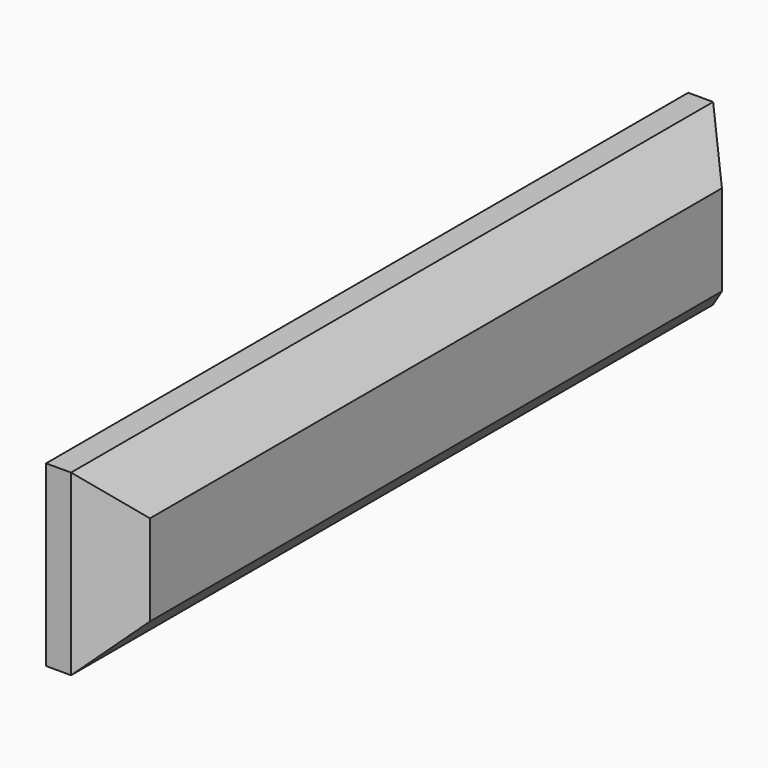
from build123d import *

# Parameters (mm, degrees)
F0_W     = 7.970042
F0_H     = 92.979945
F1_DEPTH = 10.336909
F2_SIZE  = 5.08


with BuildPart() as f1:
    # F0 (on Top) → F1 (new body, symmetric)
    with BuildSketch(Plane.XY):
        with Locations((49.282994, 14.209475)):
            Rectangle(F0_W, F0_H)
    extrude(amount=F1_DEPTH, both=True)

    # F2
    f2_edges = [f1.edges().sort_by_distance(p)[0] for p in [
        (53.268015, 14.209475, -10.336909),
        (53.268015, 60.699448, 0),
        (53.268015, 14.209475, 10.336909),
        (53.268015, -32.280497, 0),
    ]]
    chamfer(f2_edges, length=F2_SIZE)


solid = f1.part
